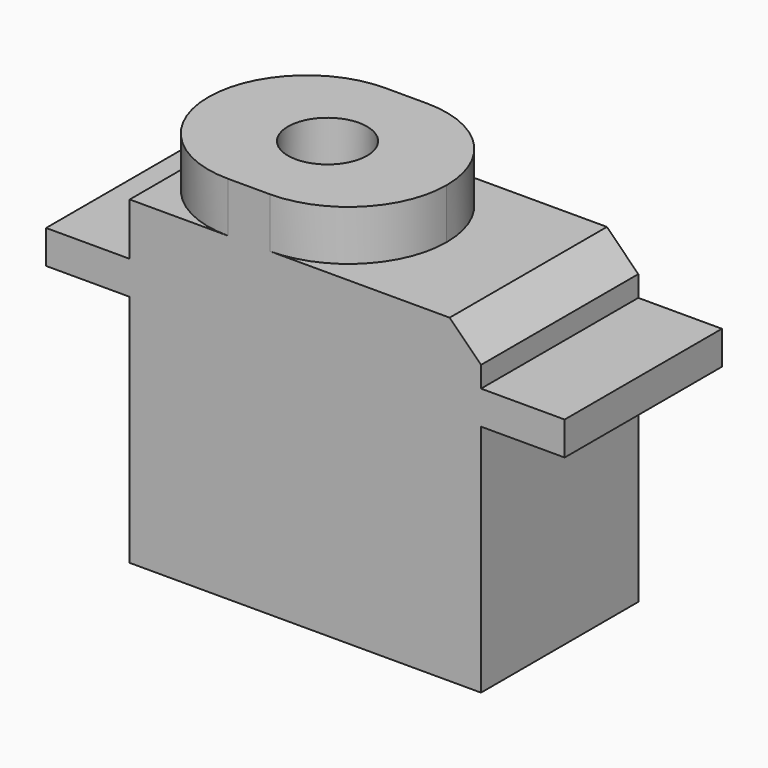
from build123d import *

# Parameters (mm, degrees)
F0_W     = 5.08
F0_H     = 2.032
F1_DEPTH = 11.938
F2_SIZE  = 1.905
F3_R     = 2.4007388602
F4_DEPTH = 3.048


with BuildPart() as f1:
    # F0 (on Front) → F1 (new body)
    with BuildSketch(Plane.XZ):
        with Locations((-2.54, -4.191)):
            Rectangle(F0_W, F0_H)
        with Locations((23.876, -4.191)):
            Rectangle(F0_W, F0_H)
        Polygon((14.478, 0), (0, 0), (0, -3.175), (0, -5.207), (0, -19.431), (21.336, -19.431), (21.336, -5.207), (21.336, -3.175), (21.336, 0), align=None)
    extrude(amount=F1_DEPTH)

    # F2
    f2_edges = [f1.edges().sort_by_distance(p)[0] for p in [
        (21.336, -5.969, 0),
    ]]
    chamfer(f2_edges, length=F2_SIZE)

    # F3 (on face) → F4 (join)
    with BuildSketch(Plane.XY):
        with BuildLine():
            ThreePointArc((7.239, -0.1366710484), (6.6076663792, -0.0342661175), (5.969, 0))
            ThreePointArc((5.969, 0), (0, -5.969), (5.969, -11.938))
            ThreePointArc((5.969, -11.938), (6.6076663792, -11.9037338825), (7.239, -11.8013289516))
            ThreePointArc((7.239, -11.8013289516), (2.54, -5.969), (7.239, -0.1366710484))
        make_face()
        with BuildLine():
            Line((8.509, 0), (5.969, 0))
            ThreePointArc((5.969, 0), (6.6076663792, -0.0342661175), (7.239, -0.1366710484))
            ThreePointArc((7.239, -0.1366710484), (7.8703336208, -0.0342661175), (8.509, 0))
        make_face()
        with BuildLine():
            ThreePointArc((7.239, -11.8013289516), (6.6076663792, -11.9037338825), (5.969, -11.938))
            Line((5.969, -11.938), (8.509, -11.938))
            ThreePointArc((8.509, -11.938), (7.8703336208, -11.9037338825), (7.239, -11.8013289516))
        make_face()
        with BuildLine():
            ThreePointArc((8.509, 0), (7.8703336208, -0.0342661175), (7.239, -0.1366710484))
            ThreePointArc((7.239, -0.1366710484), (10.6170959005, -2.2241147548), (11.938, -5.969))
            ThreePointArc((11.938, -5.969), (10.6170959005, -9.7138852452), (7.239, -11.8013289516))
            ThreePointArc((7.239, -11.8013289516), (7.8703336208, -11.9037338825), (8.509, -11.938))
            ThreePointArc((8.509, -11.938), (12.7297203769, -10.1897203769), (14.478, -5.969))
            ThreePointArc((14.478, -5.969), (12.7297203769, -1.7482796231), (8.509, 0))
        make_face()
        with BuildLine():
            ThreePointArc((7.239, -11.8013289516), (10.6170959005, -9.7138852452), (11.938, -5.969))
            ThreePointArc((11.938, -5.969), (10.6170959005, -2.2241147548), (7.239, -0.1366710484))
            ThreePointArc((7.239, -0.1366710484), (2.54, -5.969), (7.239, -11.8013289516))
        make_face()
        with Locations((7.239, -5.969)):
            Circle(F3_R, mode=Mode.SUBTRACT)
    extrude(amount=F4_DEPTH)


solid = f1.part
